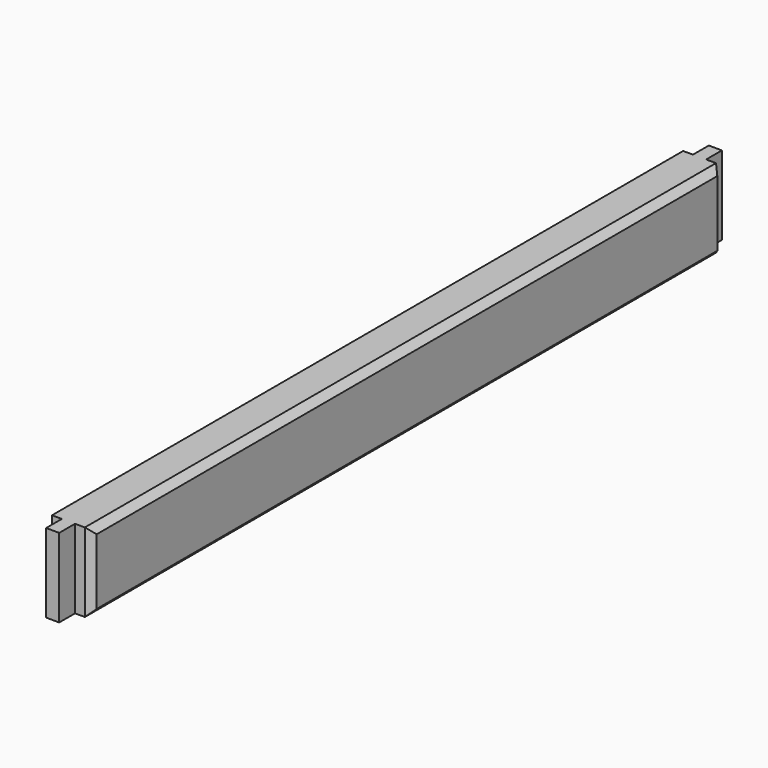
from build123d import *

# Parameters (mm, degrees)
F0_W     = 19.05
F0_H     = 38.1
F1_DEPTH = 381
F2_SIZE  = 3.175
F3_W     = 6.35
F3_H     = 38.1
F4_DEPTH = 9.525
F5_W     = 6.35
F5_H     = 38.1
F6_DEPTH = 9.525


with BuildPart() as f1:
    # F0 (on Front) → F1 (new body)
    with BuildSketch(Plane.XZ):
        with Locations((9.525, 19.05)):
            Rectangle(F0_W, F0_H)
    extrude(amount=F1_DEPTH)

    # F2
    f2_edges = [f1.edges().sort_by_distance(p)[0] for p in [
        (19.05, -190.5, 38.1),
        (19.05, -381, 19.05),
        (19.05, 0, 19.05),
        (19.05, -190.5, 0),
    ]]
    chamfer(f2_edges, length=F2_SIZE)

    # F3 (on face) → F4 (join)
    with BuildSketch(Plane.XZ.offset(381)):
        with Locations((7.9375, 19.05)):
            Rectangle(F3_W, F3_H)
    extrude(amount=F4_DEPTH)

    # F5 (on face) → F6 (join)
    with BuildSketch(Plane(origin=(0, 0, 0), x_dir=(-1, 0, 0), z_dir=(0, 1, 0))):
        with Locations((-7.9375, 19.05)):
            Rectangle(F5_W, F5_H)
    extrude(amount=F6_DEPTH)


solid = f1.part
